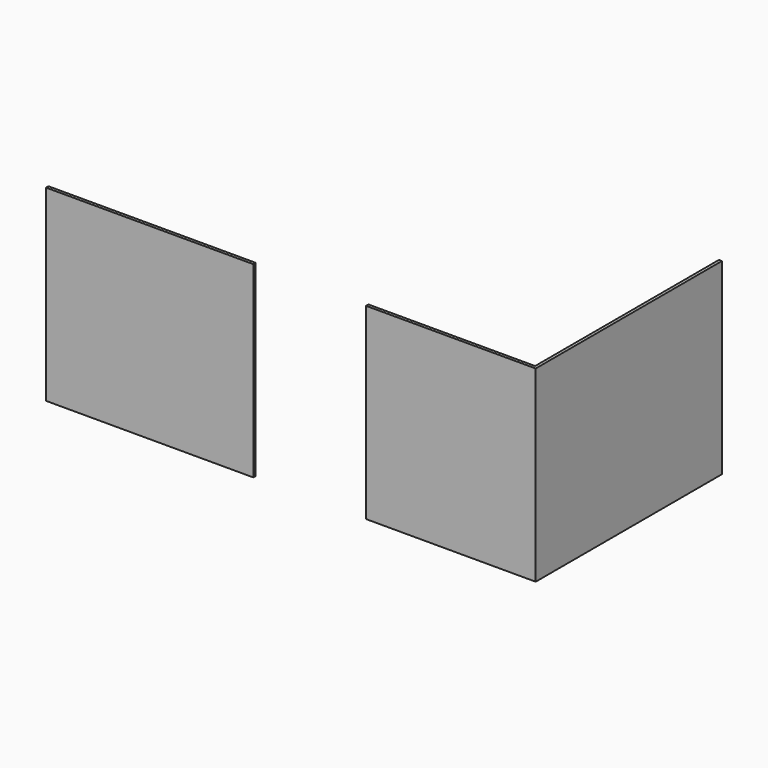
from build123d import *

# Parameters (mm, degrees)
F0_W     = 2260
F0_H     = 2500
F1_DEPTH = 40
F2_W     = 40
F2_H     = 2500
F2_W_2   = 3060
F3_DEPTH = 40
F7_W     = 2760
F7_H     = 2500
F8_DEPTH = 40


with BuildPart() as f1:
    # F0 (on Front) → F1 (new body)
    with BuildSketch(Plane.XZ):
        with Locations((-19.967223, 488.248582)):
            Rectangle(F0_W, F0_H)
    extrude(amount=F1_DEPTH)

    # F2 (on face) → F3 (join)
    with BuildSketch(Plane.YZ.offset(1110.032777)):
        with Locations((-20, 488.248582)):
            Rectangle(F2_W, F2_H)
        with Locations((1530, 488.248582)):
            Rectangle(F2_W_2, F2_H)
    extrude(amount=-F3_DEPTH)


with BuildPart() as f8:
    # F7 (on face) → F8 (new body)
    with BuildSketch(Plane.XZ.offset(40)):
        with Locations((-4029.967223, 488.248582)):
            Rectangle(F7_W, F7_H)
    extrude(amount=-F8_DEPTH)


solid = Compound([f1.part, f8.part])
